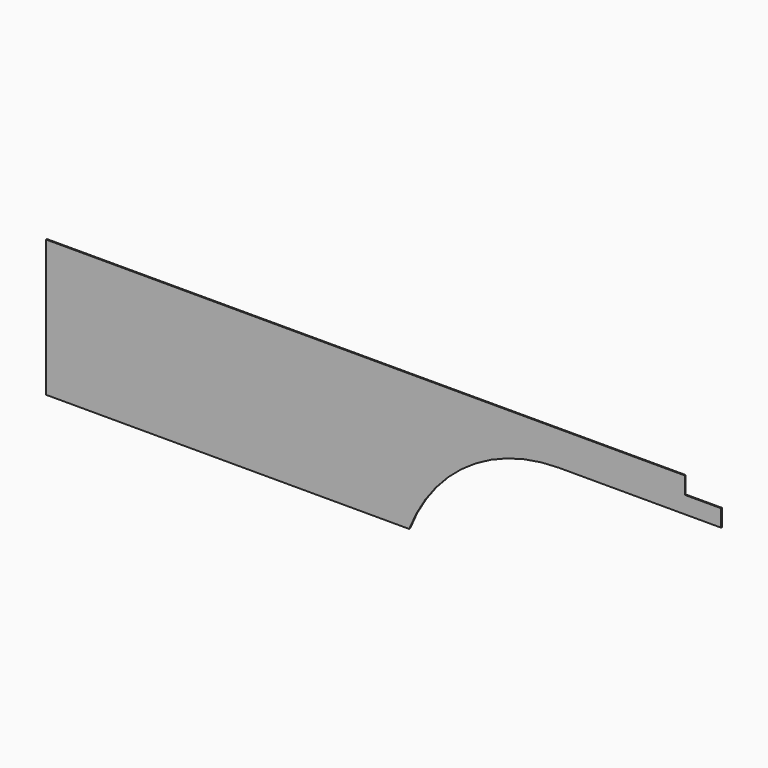
from build123d import *

# Parameters (mm, degrees)
F1_DEPTH = 3.175


with BuildPart() as f1:
    # F0 (on Front) → F1 (new body)
    with BuildSketch(Plane.XZ):
        with BuildLine():
            Line((0, 406.4), (0, 0))
            Line((0, 0), (1079.5, 0))
            ThreePointArc((1079.5, 0), (1254.517491, 221.280742), (1524, 304.8))
            Line((1524, 304.8), (2006.6, 304.8))
            Line((2006.6, 304.8), (2006.6, 355.6))
            Line((2006.6, 355.6), (1898.65, 355.6))
            Line((1898.65, 355.6), (1898.65, 406.4))
            Line((1898.65, 406.4), (0, 406.4))
        make_face()
    extrude(amount=F1_DEPTH)


solid = f1.part
